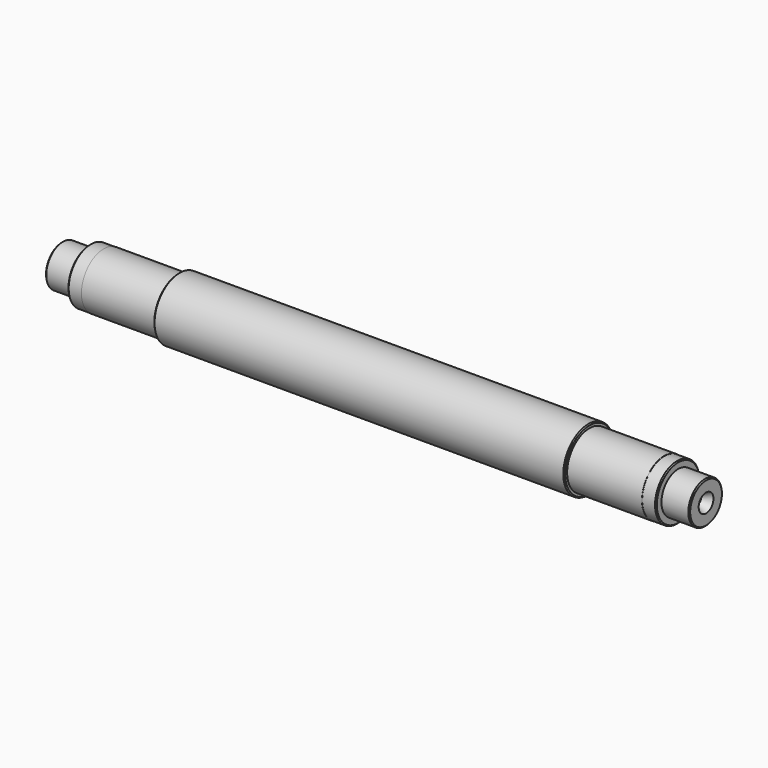
from build123d import *

# Parameters (mm, degrees)
F0_W                 = 8
F0_H                 = 6
F2_SIZE              = 0.3
F5_D                 = 2.5
F5_DEPTH             = 5
F5_CSINK_D           = 5.3
F5_CSINK_ANGLE       = 60
F5_TIP               = 0.7510757738
F5_ON_F4_D           = 2.5
F5_ON_F4_DEPTH       = 5
F5_ON_F4_CSINK_D     = 5.3
F5_ON_F4_CSINK_ANGLE = 60
F5_ON_F4_TIP         = 0.7510757738


with BuildPart() as f1:
    # F0 (on Top) → F1 (revolve)
    with BuildSketch(Plane.XY):
        with Locations((147.5, 3)):
            Rectangle(F0_W, F0_H)
        Polygon((139.5, 7.95), (139.5, 0), (143.5, 0), (143.5, 6), (143.5, 7.95), align=None)
        Polygon((118, 8), (118, 0), (139.5, 0), (139.5, 7.95), (139.5, 8), align=None)
        Polygon((0, 8), (0, 0), (118, 0), (118, 8), (118, 9), (0, 9), align=None)
        Polygon((-21.5, 0), (0, 0), (0, 8), (-21.5, 8), (-21.5, 7.95), align=None)
        Polygon((-25.5, 0), (-21.5, 0), (-21.5, 7.95), (-25.5, 7.95), (-25.5, 6), align=None)
        with Locations((-29.5, 3)):
            Rectangle(F0_W, F0_H)
    revolve(axis=Axis((59, 0, 0), (1, 0, 0)))

    # F2
    f2_edges = [f1.edges().sort_by_distance(p)[0] for p in [
        (151.5, -6, 0),
        (143.5, -7.95, 0),
        (118, -9, 0),
        (0, -9, 0),
        (-25.5, -7.95, 0),
        (-33.5, -6, 0),
    ]]
    chamfer(f2_edges, length=F2_SIZE)

    # F5
    with Locations(Plane(origin=(-33.5, 0, 0), x_dir=(0, -1, 0), z_dir=(-1, 0, 0))):
        with Locations((0, 0)):
            CounterSinkHole(F5_D / 2, F5_CSINK_D / 2, depth=F5_DEPTH, counter_sink_angle=F5_CSINK_ANGLE)
            with Locations((0, 0, -(F5_DEPTH + F5_TIP / 2))):  # 118° drill point
                Cone(0, F5_D / 2, F5_TIP, mode=Mode.SUBTRACT)

    # F5 on F4
    with Locations(Plane.YZ.offset(151.5)):
        with Locations((0, 0)):
            CounterSinkHole(F5_ON_F4_D / 2, F5_ON_F4_CSINK_D / 2, depth=F5_ON_F4_DEPTH, counter_sink_angle=F5_ON_F4_CSINK_ANGLE)
            with Locations((0, 0, -(F5_ON_F4_DEPTH + F5_ON_F4_TIP / 2))):  # 118° drill point
                Cone(0, F5_ON_F4_D / 2, F5_ON_F4_TIP, mode=Mode.SUBTRACT)


solid = f1.part
